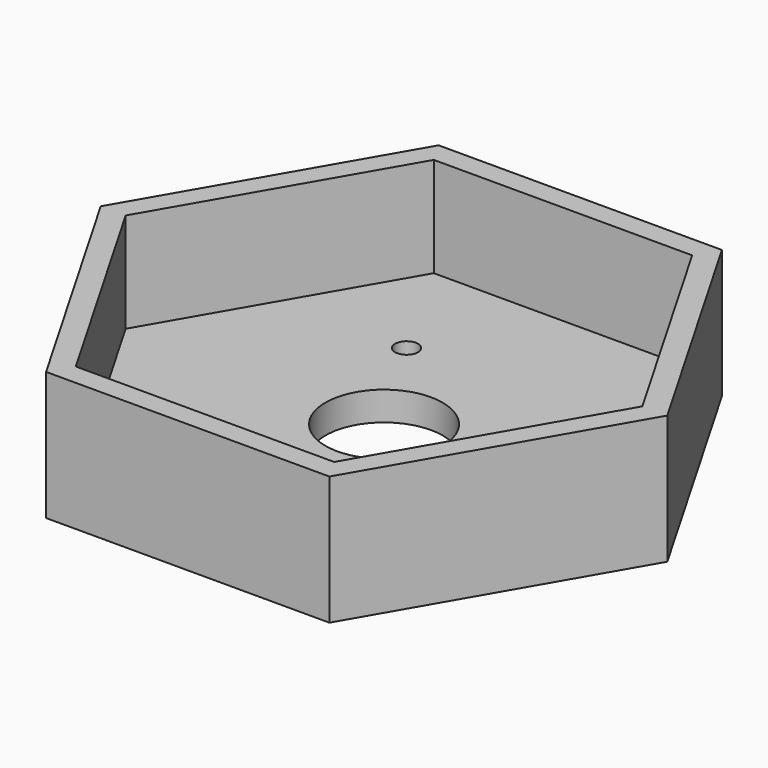
from build123d import *

# Parameters (mm, degrees)
F0_R     = 2.3
F0_R_2   = 11.75
F0_R_3   = 7.5
F1_DEPTH = 5.8
F2_DEPTH = 25.8


with BuildPart() as f1:
    # F0 (on Top) → F1 (new body)
    with BuildSketch(Plane.XY):
        Polygon((25.9, 44.860116), (-25.9, 44.860116), (-51.8, 0), (-25.9, -44.860116), (25.9, -44.860116), (51.8, 0), align=None)
        with Locations((-13.384125, 22.388888)):
            Circle(F0_R, mode=Mode.SUBTRACT)
        Circle(F0_R_2, mode=Mode.SUBTRACT)
        with Locations((30.454506, 2.57507)):
            Circle(F0_R_3, mode=Mode.SUBTRACT)
    extrude(amount=F1_DEPTH)

    # F0 (on Top) → F2 (join)
    with BuildSketch(Plane.XY):
        Polygon((28.4, 49.190243), (-28.4, 49.190243), (-56.8, 0), (-28.4, -49.190243), (28.4, -49.190243), (56.8, 0), align=None)
        Polygon((-51.8, 0), (-25.9, 44.860116), (25.9, 44.860116), (51.8, 0), (25.9, -44.860116), (-25.9, -44.860116), align=None, mode=Mode.SUBTRACT)
    extrude(amount=F2_DEPTH)


solid = f1.part
